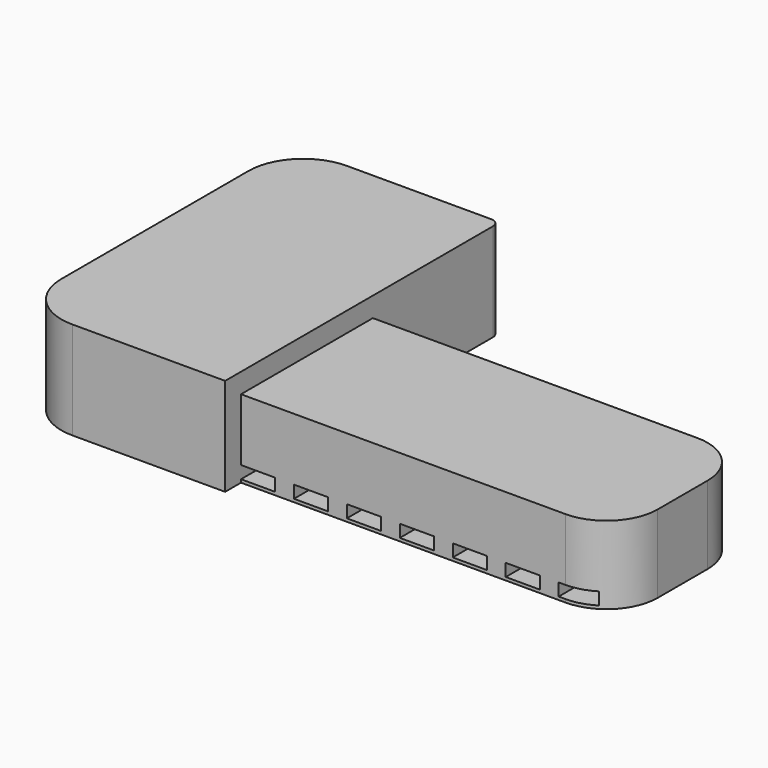
from build123d import *

# Parameters (mm, degrees)
F2_DEPTH = 5.72
F3_DEPTH = 4.56
F4_W     = 2
F4_H     = 0.73
F5_DEPTH = 18.941


with BuildPart() as f2:
    # F1 (on Top) → F2 (new body)
    with BuildSketch(Plane.XY):
        with BuildLine():
            ThreePointArc((0, 3.2), (0.9372583002, 0.9372583002), (3.2, 0))
            Line((3.2, 0), (12.15, 0))
            Line((12.15, 0), (12.15, 1.16))
            Line((12.15, 1.16), (12.15, 10.81))
            Line((12.15, 10.81), (12.15, 19.6))
            ThreePointArc((12.15, 19.6), (12.0035533906, 19.9535533906), (11.65, 20.1))
            Line((11.65, 20.1), (3.2, 20.1))
            ThreePointArc((3.2, 20.1), (0.9372583002, 19.1627416998), (0, 16.9))
            Line((0, 16.9), (0, 3.2))
        make_face()
    extrude(amount=F2_DEPTH)

    # F1 (on Top) → F3 (join)
    with BuildSketch(Plane.XY):
        with BuildLine():
            Line((12.15, 10.81), (12.15, 1.16))
            Line((12.15, 1.16), (31.15, 1.16))
            ThreePointArc((31.15, 1.16), (33.2713203436, 2.0386796564), (34.15, 4.16))
            Line((34.15, 4.16), (34.15, 7.81))
            ThreePointArc((34.15, 7.81), (33.2713203436, 9.9313203436), (31.15, 10.81))
            Line((31.15, 10.81), (12.15, 10.81))
        make_face()
    extrude(amount=F3_DEPTH)

    # F4 (on face) → F5 (cut, through all)
    with BuildSketch(Plane.XZ.offset(-1.16)):
        with Locations((13.15, 0.545)):
            Rectangle(F4_W, F4_H)
        with Locations((16.25, 0.545)):
            Rectangle(F4_W, F4_H)
        with Locations((19.35, 0.545)):
            Rectangle(F4_W, F4_H)
        with Locations((22.45, 0.545)):
            Rectangle(F4_W, F4_H)
        with Locations((25.55, 0.545)):
            Rectangle(F4_W, F4_H)
        with Locations((28.65, 0.545)):
            Rectangle(F4_W, F4_H)
        with Locations((31.75, 0.545)):
            Rectangle(F4_W, F4_H)
    extrude(amount=-F5_DEPTH, mode=Mode.SUBTRACT)


solid = f2.part
